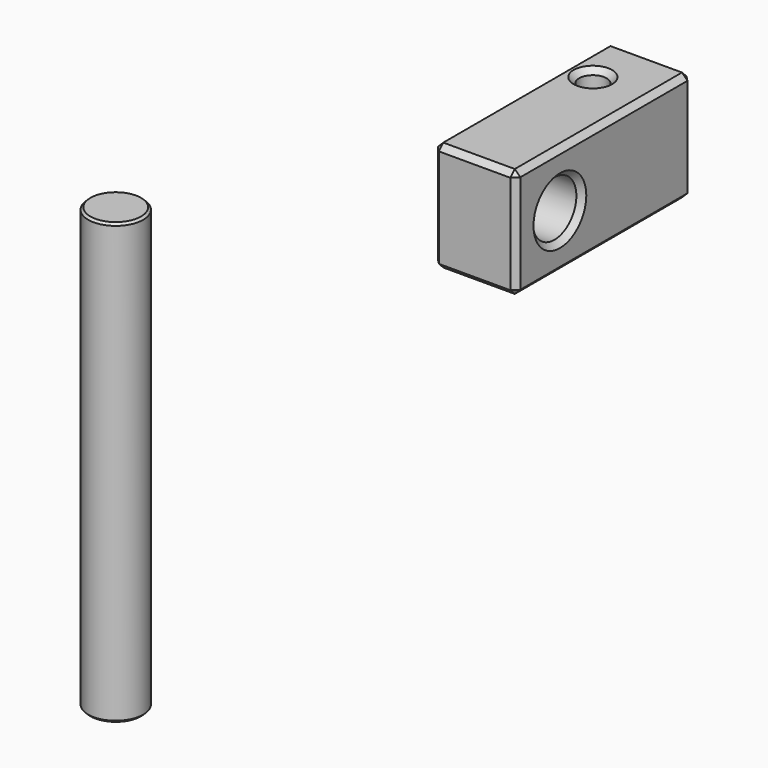
from build123d import *

# Parameters (mm, degrees)
F0_R     = 6.35
F1_DEPTH = 101.6
F2_SIZE  = 0.508
F3_W     = 50.8
F3_H     = 25.4
F4_DEPTH = 19.05
F5_R     = 6.35
F6_DEPTH = 25.4
F7_SIZE  = 1.27
F8_R     = 3.175
F9_DEPTH = 38.1
F10_SIZE = 1.27


with BuildPart() as f1:
    # F0 (on Top) → F1 (new body)
    with BuildSketch(Plane.XY):
        Circle(F0_R)
    extrude(amount=F1_DEPTH)

    # F2
    f2_edges = [f1.edges().sort_by_distance(p)[0] for p in [
        (-6.35, 0, 101.6),
        (-6.35, 0, 0),
    ]]
    chamfer(f2_edges, length=F2_SIZE)


with BuildPart() as f4:
    # F3 (on Right) → F4 (new body)
    with BuildSketch(Plane.YZ):
        with Locations((117.089135, 64.651334)):
            Rectangle(F3_W, F3_H)
    extrude(amount=F4_DEPTH)

    # F5 (on face) → F6 (cut)
    with BuildSketch(Plane.YZ.offset(19.05)):
        with Locations((104.389135, 64.651334)):
            Circle(F5_R)
    extrude(amount=-F6_DEPTH, mode=Mode.SUBTRACT)

    # F7
    f7_edges = [f4.edges().sort_by_distance(p)[0] for p in [
        (19.05, 142.489135, 64.651334),
        (9.525, 142.489135, 77.351334),
        (9.525, 142.489135, 51.951334),
        (0, 142.489135, 64.651334),
        (19.05, 117.089135, 51.951334),
        (19.05, 117.089135, 77.351334),
        (19.05, 91.689135, 64.651334),
        (9.525, 91.689135, 77.351334),
        (9.525, 91.689135, 51.951334),
        (0, 91.689135, 64.651334),
        (0, 117.089135, 77.351334),
        (0, 117.089135, 51.951334),
        (0, 98.039135, 64.651334),
        (19.05, 98.039135, 64.651334),
    ]]
    chamfer(f7_edges, length=F7_SIZE)

    # F8 (on face) → F9 (cut)
    with BuildSketch(Plane(origin=(0, 0, 51.951334), x_dir=(1, 0, 0), z_dir=(0, 0, -1))):
        with Locations((6.35, -129.789135)):
            Circle(F8_R)
    extrude(amount=-F9_DEPTH, mode=Mode.SUBTRACT)

    # F10
    f10_edges = [f4.edges().sort_by_distance(p)[0] for p in [
        (3.175, 129.789135, 51.951334),
        (3.175, 129.789135, 77.351334),
    ]]
    chamfer(f10_edges, length=F10_SIZE)


solid = Compound([f1.part, f4.part])
